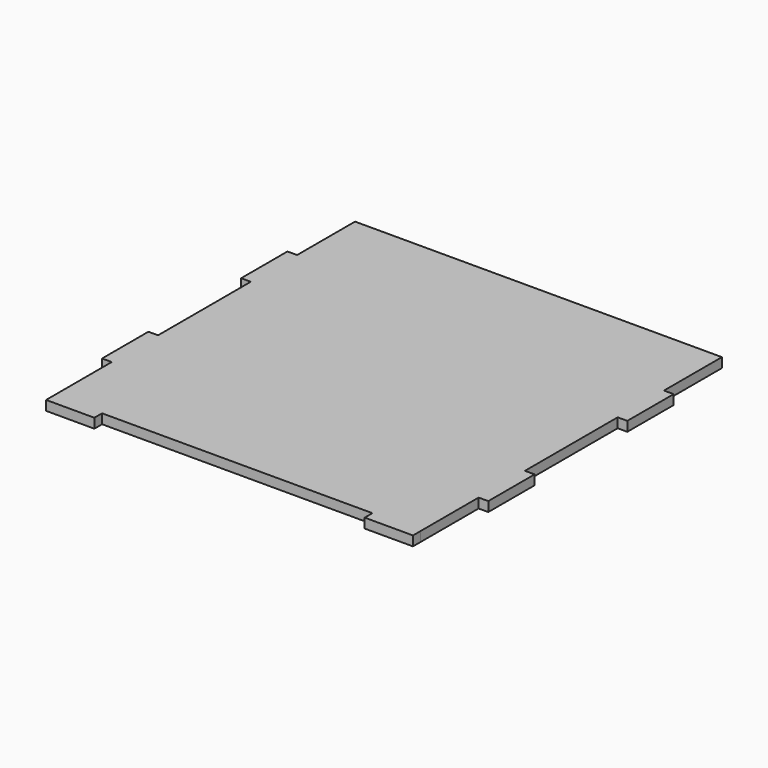
from build123d import *

# Parameters (mm, degrees)
F0_W      = 101.6
F0_H      = 101.6
F1_DEPTH  = 2.54
F3_DEPTH  = 2.54
F4_W      = 2.54
F4_H      = 16.51
F4_H_2    = 30.48
F4_H_3    = 21.59
F5_DEPTH  = 25.4
F6_W      = 8.149925
F6_H      = 6.423097
F6_W_2    = 6.710898
F7_DEPTH  = 25.4
F8_W      = 12.7
F8_H      = 2.54
F9_DEPTH  = 2.54
F10_W     = 2.54
F10_H     = 2.54
F11_DEPTH = 2.54
F12_W     = 2.54
F12_H     = 2.54
F13_DEPTH = 25.4


with BuildPart() as f1:
    # F0 (on Top) → F1 (new body)
    with BuildSketch(Plane.XY):
        Rectangle(F0_W, F0_H)
    extrude(amount=F1_DEPTH)

    # F2 (on face) → F3 (cut)
    with BuildSketch(Plane.XZ.offset(50.8)):
        Polygon((-41.91, 2.54), (-39.37, 0), (39.37, 0), (41.91, 2.54), align=None)
    extrude(amount=-F3_DEPTH, mode=Mode.SUBTRACT)

    # F4 (on face) → F5 (cut)
    with BuildSketch(Plane.XY.offset(2.54)):
        with Locations((-49.53, -40.005)):
            Rectangle(F4_W, F4_H)
        with Locations((-49.53, -1.27)):
            Rectangle(F4_W, F4_H_2)
        with Locations((-49.53, 40.005)):
            Rectangle(F4_W, F4_H_3)
        with Locations((49.53, -40.005)):
            Rectangle(F4_W, F4_H)
        with Locations((49.53, -1.27)):
            Rectangle(F4_W, F4_H_2)
        with Locations((49.53, 40.005)):
            Rectangle(F4_W, F4_H_3)
    extrude(amount=-F5_DEPTH, mode=Mode.SUBTRACT)

    # F6 (on face) → F7 (cut)
    with BuildSketch(Plane.XY.offset(2.54)):
        with Locations((52.334962, -51.471548)):
            Rectangle(F6_W, F6_H)
        with Locations((-51.615449, -51.471548)):
            Rectangle(F6_W_2, F6_H)
    extrude(amount=-F7_DEPTH, mode=Mode.SUBTRACT)

    # F8 (on face) → F9 (join)
    with BuildSketch(Plane.XY.offset(2.54)):
        with Locations((41.91, -49.53)):
            Rectangle(F8_W, F8_H)
        with Locations((-41.91, -49.53)):
            Rectangle(F8_W, F8_H)
    extrude(amount=-F9_DEPTH)

    # F10 (on face) → F11 (join)
    with BuildSketch(Plane.XY.offset(2.54)):
        with Locations((-49.53, 30.48)):
            Rectangle(F10_W, F10_H)
        with Locations((-49.53, -15.24)):
            Rectangle(F10_W, F10_H)
        with Locations((49.53, -15.24)):
            Rectangle(F10_W, F10_H)
        with Locations((49.53, 30.48)):
            Rectangle(F10_W, F10_H)
    extrude(amount=-F11_DEPTH)

    # F12 (on face) → F13 (cut)
    with BuildSketch(Plane.XY.offset(2.54)):
        with Locations((49.53, -30.48)):
            Rectangle(F12_W, F12_H)
        with Locations((49.53, 15.24)):
            Rectangle(F12_W, F12_H)
        with Locations((-49.53, -30.48)):
            Rectangle(F12_W, F12_H)
        with Locations((-49.53, 15.24)):
            Rectangle(F12_W, F12_H)
    extrude(amount=-F13_DEPTH, mode=Mode.SUBTRACT)


solid = f1.part
